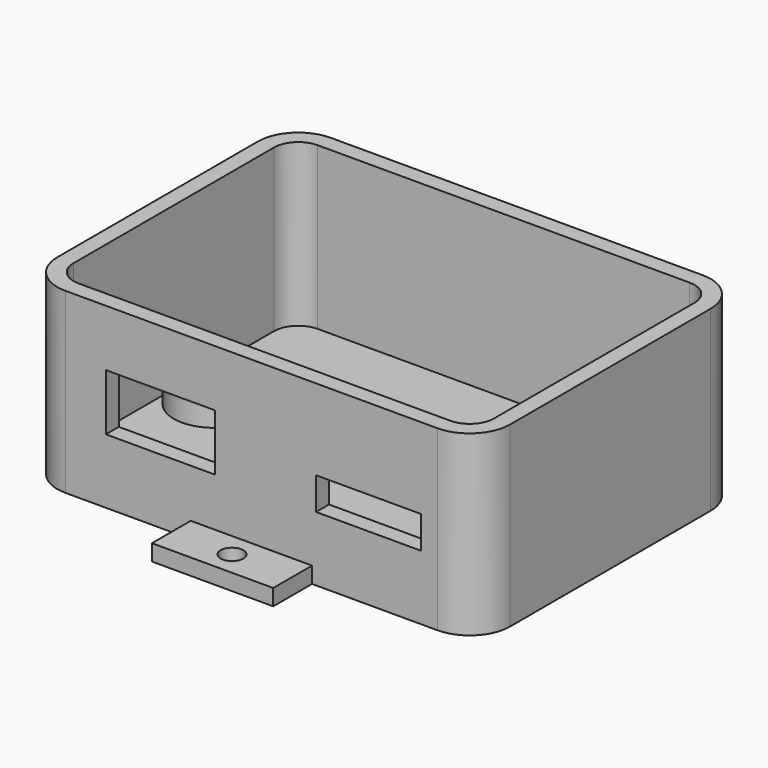
from build123d import *

# Parameters (mm, degrees)
PAD_DEPTH       = 20
THICKNESS_T     = 2
SKETCH001_W     = 15
SKETCH001_H     = 2
PAD001_DEPTH    = 6
SKETCH002_R     = 1.4
POCKET_DEPTH    = 2.001
SKETCH003_W     = 15
SKETCH003_H     = 2
PAD002_DEPTH    = 6
SKETCH004_R     = 1.4
POCKET001_DEPTH = 22.001
SKETCH005_R     = 2.5
PAD003_DEPTH    = 7
SKETCH006_R     = 5
PAD004_DEPTH    = 5
SKETCH007_R     = 1.6
POCKET002_DEPTH = 22.001
SKETCH008_R     = 3.5
POCKET003_DEPTH = 2.8
SKETCH009_W     = 13.5
SKETCH009_H     = 7
SKETCH009_W_2   = 13
SKETCH009_H_2   = 4
POCKET004_DEPTH = 2


with BuildPart() as part:
    # Sketch → Pad (new body)
    with BuildSketch(Plane.XY):
        with BuildLine():
            Line((0, 37), (46, 37))
            ThreePointArc((49, 34), (48.1213203436, 36.1213203436), (46, 37))
            Line((49, 34), (49, 3))
            ThreePointArc((46, 0), (48.1213203436, 0.8786796564), (49, 3))
            Line((46, 0), (0, 0))
            ThreePointArc((-3, 3), (-2.1213203436, 0.8786796564), (0, 0))
            Line((-3, 3), (-3, 34))
            ThreePointArc((0, 37), (-2.1213203436, 36.1213203436), (-3, 34))
        make_face()
    extrude(amount=PAD_DEPTH)

    # Thickness
    thickness_openings = [part.faces().sort_by_distance(p)[0] for p in [
        (23, 18.5, 20),
    ]]
    offset(amount=THICKNESS_T, openings=thickness_openings, kind=Kind.INTERSECTION)

    # Sketch001 → Pad001 (new body)
    with BuildSketch(Plane(origin=(0, 39, 0), x_dir=(-1, 0, 0), z_dir=(0, 1, 0))):
        with Locations((-23, -1)):
            Rectangle(SKETCH001_W, SKETCH001_H)
    extrude(amount=PAD001_DEPTH)

    # Sketch002 → Pocket (cut, through all)
    with BuildSketch(Plane.XY):
        with Locations((23, 42)):
            Circle(SKETCH002_R)
    extrude(amount=-POCKET_DEPTH, mode=Mode.SUBTRACT)

    # Sketch003 → Pad002 (new body)
    with BuildSketch(Plane.XZ.offset(2)):
        with Locations((23, -1)):
            Rectangle(SKETCH003_W, SKETCH003_H)
    extrude(amount=PAD002_DEPTH)

    # Sketch004 → Pocket001 (cut, through all)
    with BuildSketch(Plane(origin=(0, 0, -2), x_dir=(1, 0, 0), z_dir=(0, 0, -1))):
        with Locations((23, 5)):
            Circle(SKETCH004_R)
    extrude(amount=-POCKET001_DEPTH, mode=Mode.SUBTRACT)

    # Sketch005 → Pad003 (new body)
    with BuildSketch(Plane(origin=(0, 0, -2), x_dir=(1, 0, 0), z_dir=(0, 0, -1))):
        with Locations((2, -18.5)):
            Circle(SKETCH005_R)
        with Locations((44, -18.5)):
            Circle(SKETCH005_R)
    extrude(amount=-PAD003_DEPTH)

    # Sketch006 → Pad004 (new body)
    with BuildSketch(Plane(origin=(0, 0, -2), x_dir=(1, 0, 0), z_dir=(0, 0, -1))):
        with Locations((2, -18.5)):
            Circle(SKETCH006_R)
        with Locations((44, -18.5)):
            Circle(SKETCH006_R)
    extrude(amount=-PAD004_DEPTH)

    # Sketch007 → Pocket002 (cut, through all)
    with BuildSketch(Plane(origin=(0, 0, -2), x_dir=(1, 0, 0), z_dir=(0, 0, -1))):
        with Locations((2, -18.5)):
            Circle(SKETCH007_R)
        with Locations((44, -18.5)):
            Circle(SKETCH007_R)
    extrude(amount=-POCKET002_DEPTH, mode=Mode.SUBTRACT)

    # Sketch008 → Pocket003 (cut)
    with BuildSketch(Plane(origin=(0, 0, -2), x_dir=(1, 0, 0), z_dir=(0, 0, -1))):
        with Locations((2, -18.5)):
            Circle(SKETCH008_R)
        with Locations((44, -18.5)):
            Circle(SKETCH008_R)
    extrude(amount=-POCKET003_DEPTH, mode=Mode.SUBTRACT)

    # Sketch009 → Pocket004 (cut)
    with BuildSketch(Plane.XZ.offset(2)):
        with Locations((11.75, 9.5)):
            Rectangle(SKETCH009_W, SKETCH009_H)
        with Locations((37.5, 8)):
            Rectangle(SKETCH009_W_2, SKETCH009_H_2)
    extrude(amount=-POCKET004_DEPTH, mode=Mode.SUBTRACT)


solid = part.part
